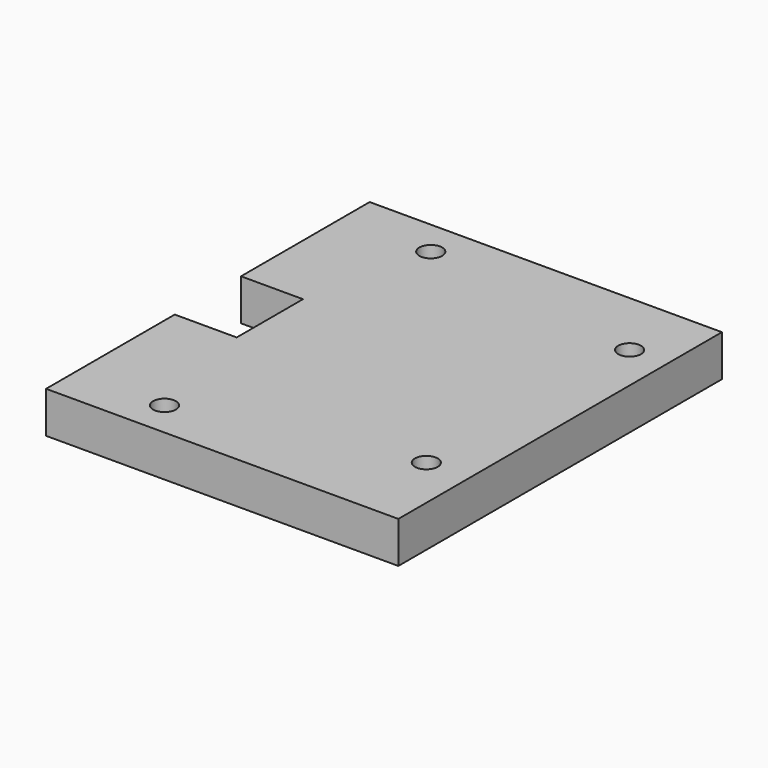
from build123d import *

# Parameters (mm, degrees)
F0_W     = 216
F0_H     = 25.4
F1_DEPTH = 248
F2_R     = 7
F3_DEPTH = 12.7
F4_W     = 38
F4_H     = 50.8
F4_R     = 7
F5_DEPTH = 25.4


with BuildPart() as f1:
    # F0 (on Front) → F1 (new body)
    with BuildSketch(Plane.XZ):
        with Locations((-108, 12.7)):
            Rectangle(F0_W, F0_H)
    extrude(amount=-F1_DEPTH)

    # F2 (on face) → F3 (cut)
    with BuildSketch(Plane.XY.offset(25.4)):
        with Locations((-161, 226.081771)):
            Circle(F2_R)
        with Locations((-161, 22)):
            Circle(F2_R)
        with Locations((-23, 206)):
            Circle(F2_R)
        with Locations((-26, 53.945143)):
            Circle(F2_R)
    extrude(amount=-F3_DEPTH, mode=Mode.SUBTRACT)

    # F4 (on face) → F5 (cut, through all)
    with BuildSketch(Plane.XY.offset(25.4)):
        with Locations((-197, 124)):
            Rectangle(F4_W, F4_H)
        with Locations((-26, 53.945143)):
            Circle(F4_R)
    extrude(amount=-F5_DEPTH, mode=Mode.SUBTRACT)


solid = f1.part
